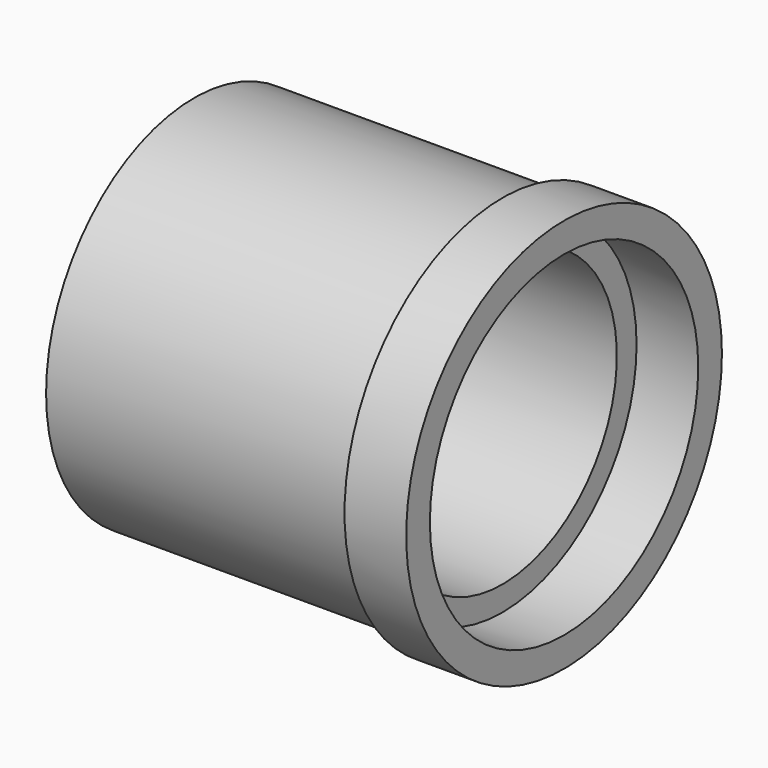
from build123d import *

# Parameters (mm, degrees)
F0_R     = 16
F0_R_2   = 13.6
F1_DEPTH = 5
F2_R     = 15
F2_R_2   = 11.6
F3_DEPTH = 25


with BuildPart() as f1:
    # F0 (on Right) → F1 (new body)
    with BuildSketch(Plane.YZ):
        Circle(F0_R)
        Circle(F0_R_2, mode=Mode.SUBTRACT)
    extrude(amount=F1_DEPTH)

    # F2 (on face) → F3 (join)
    with BuildSketch(Plane(origin=(0, 0, 0), x_dir=(0, -1, 0), z_dir=(-1, 0, 0))):
        Circle(F2_R)
        Circle(F2_R_2, mode=Mode.SUBTRACT)
    extrude(amount=F3_DEPTH)


solid = f1.part
